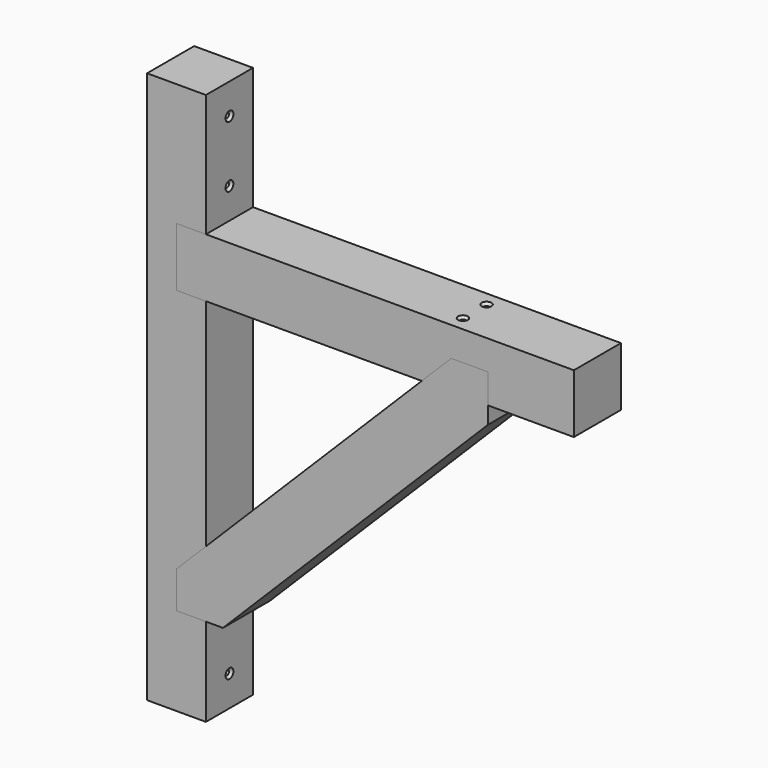
from build123d import *

# Parameters (mm, degrees)
F0_W            = 48
F0_H            = 48
F1_DEPTH        = 400
F1_DEPTH_BACK   = 50
F2_W            = 324
F2_H            = 48
F3_DEPTH        = 24
F5_DEPTH        = 24
F6_DEPTH        = 24
F7_DEPTH        = 24
F8_DEPTH        = 24
F9_DEPTH        = 25
F12_D           = 4
F12_CSINK_D     = 8
F12_CSINK_ANGLE = 90
F14_D           = 4
F14_CSINK_D     = 8
F14_CSINK_ANGLE = 90
F16_D           = 4
F16_CSINK_D     = 8
F16_CSINK_ANGLE = 90


with BuildPart() as f1:
    # F0 (on Top) → F1 (new body, two sides)
    with BuildSketch(Plane.XY) as f1_sk:
        Rectangle(F0_W, F0_H)
    extrude(amount=F1_DEPTH)
    extrude(f1_sk.sketch, amount=-F1_DEPTH_BACK)

    # F2 (on Front) → F3 (cut, symmetric)
    with BuildSketch(Plane.XZ):
        with Locations((162, 276)):
            Rectangle(F2_W, F2_H)
    extrude(amount=F3_DEPTH, both=True, mode=Mode.SUBTRACT)

    # F4 (on Front) → F5 (cut, symmetric)
    with BuildSketch(Plane.XZ):
        Polygon((254, 276), (224, 276), (0, 52), (0, 22), (37.8822509939, 22), (254, 238.1177490061), align=None)
    extrude(amount=F5_DEPTH, both=True, mode=Mode.SUBTRACT)

    # F14 (through all)
    with Locations(Plane(origin=(-24, 0, 0), x_dir=(0, -1, 0), z_dir=(-1, 0, 0))):
        with Locations((-12, 276), (12, 276), (-12, 52), (12, 52)):
            CounterSinkHole(F14_D / 2, F14_CSINK_D / 2, counter_sink_angle=F14_CSINK_ANGLE)

    # F16 (through all)
    with Locations(Plane.YZ.offset(24)):
        with Locations((0, 375), (0, 325), (0, -25)):
            CounterSinkHole(F16_D / 2, F16_CSINK_D / 2, counter_sink_angle=F16_CSINK_ANGLE)


with BuildPart() as f6:
    # F2 (on Front) → F6 (new body, symmetric)
    with BuildSketch(Plane.XZ):
        with Locations((162, 276)):
            Rectangle(F2_W, F2_H)
    extrude(amount=F6_DEPTH, both=True)

    # F4 (on Front) → F7 (cut, symmetric)
    with BuildSketch(Plane.XZ):
        Polygon((254, 276), (224, 276), (0, 52), (0, 22), (37.8822509939, 22), (254, 238.1177490061), align=None)
    extrude(amount=F7_DEPTH, both=True, mode=Mode.SUBTRACT)

    # F12 (through all)
    with Locations(Plane.XY.offset(300)):
        with Locations((224, -12), (224, 12)):
            CounterSinkHole(F12_D / 2, F12_CSINK_D / 2, counter_sink_angle=F12_CSINK_ANGLE)


with BuildPart() as f8:
    # F4 (on Front) → F8 (new body, symmetric)
    with BuildSketch(Plane.XZ):
        Polygon((254, 276), (224, 276), (0, 52), (0, 22), (37.8822509939, 22), (254, 238.1177490061), align=None)
    extrude(amount=F8_DEPTH, both=True)


with BuildPart() as f9:
    # F4 (on Front) → F9 (new body)
    with BuildSketch(Plane.XZ):
        Polygon((254, 276), (224, 276), (0, 52), (0, 22), (37.8822509939, 22), (254, 238.1177490061), align=None)
    extrude(amount=F9_DEPTH)


solid = Compound([f1.part, f6.part, f8.part])
